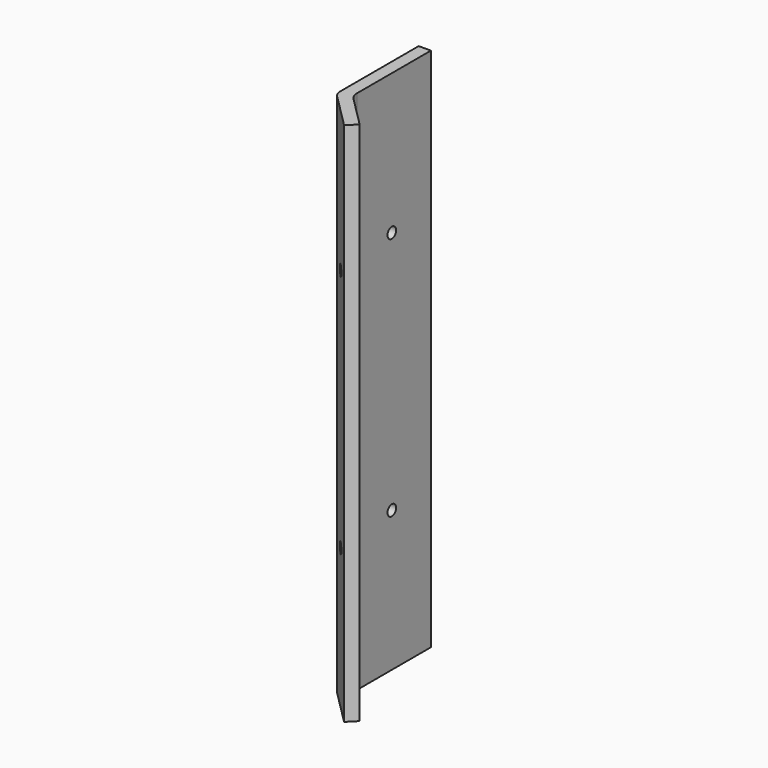
from build123d import *

# Parameters (mm, degrees)
F1_DEPTH = 215
F3_D     = 4.4
F5_D     = 4.4


with BuildPart() as f1:
    # F0 (on Top) → F1 (new body)
    with BuildSketch(Plane.XY):
        with BuildLine():
            Line((0, 2.0710678119), (0, 40))
            Line((0, 40), (-5, 40))
            Line((-5, 40), (-5, 0))
            ThreePointArc((-5, 0), (-4.6193976626, -1.9134171618), (-3.5355339059, -3.5355339059))
            Line((-3.5355339059, -3.5355339059), (10.6066017178, -17.6776695297))
            Line((10.6066017178, -17.6776695297), (14.1421356237, -14.1421356237))
            Line((14.1421356237, -14.1421356237), (1.4644660941, -1.4644660941))
            ThreePointArc((1.4644660941, -1.4644660941), (0.3806023374, 0.15765065), (0, 2.0710678119))
        make_face()
    extrude(amount=F1_DEPTH)

    # F3 (through all)
    with Locations(Plane.YZ):
        with Locations((20, 157.5), (20, 57.5)):
            Hole(F3_D / 2)

    # F5 (through all)
    with Locations(Plane(origin=(0, 0, 0), x_dir=(-0.7071067812, 0.7071067812, 0), z_dir=(0.7071067812, 0.7071067812, 0))):
        with Locations((-10, 157.5), (-10, 57.5)):
            Hole(F5_D / 2)


solid = f1.part
